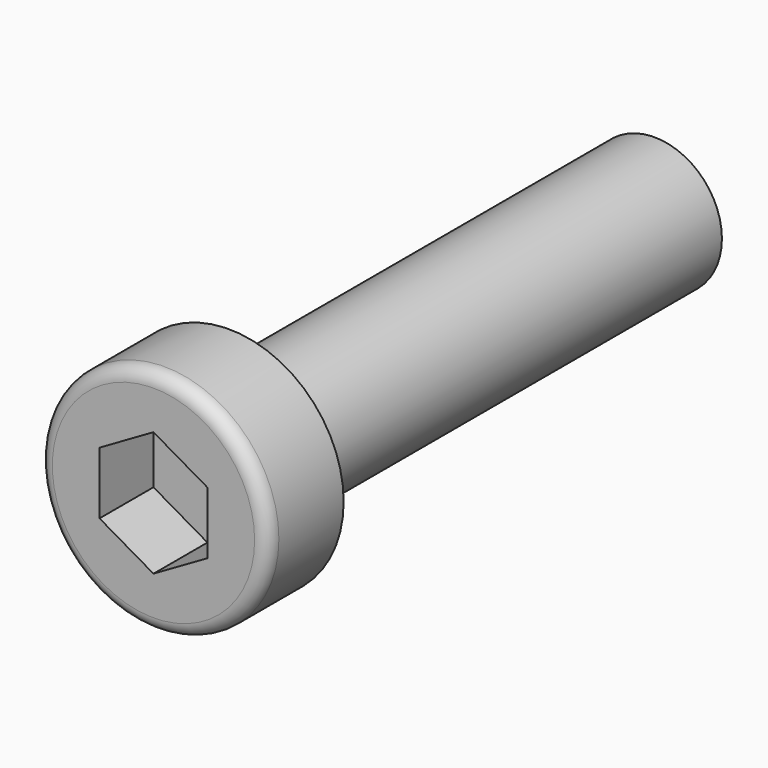
from build123d import *

# Parameters (mm, degrees)
POCKET_DEPTH = 2.5


with BuildPart() as part:
    # Sketch → Revolution (revolve)
    with BuildSketch(Plane.XY):
        with BuildLine():
            Line((2.5, 0), (4.25, 0))
            Line((4.25, 0), (4.25, -3))
            ThreePointArc((3.75, -3.5), (4.103553, -3.353553), (4.25, -3))
            Line((3.75, -3.5), (0, -3.5))
            Line((0, -3.5), (0, 20))
            Line((0, 20), (2.01, 20))
            Line((2.01, 20), (2.5, 19.717098))
            Line((2.5, 19.717098), (2.5, 0))
        make_face()
    revolve(axis=Axis((0, 0, 0), (0, 1, 0)))

    # Sketch001 → Pocket (cut)
    with BuildSketch(Plane.XZ.offset(3.5)):
        Polygon((-2, 1.154701), (-2, -1.154701), (0, -2.309401), (2, -1.154701), (2, 1.154701), (0, 2.309401), align=None)
    extrude(amount=-POCKET_DEPTH, mode=Mode.SUBTRACT)


solid = part.part
